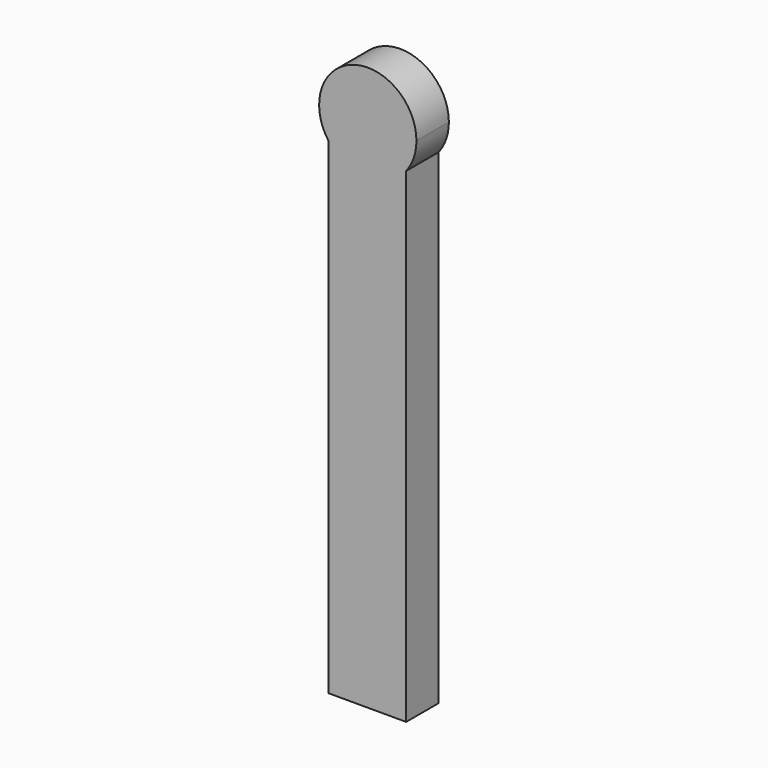
from build123d import *

# Parameters (mm, degrees)
F1_DEPTH = 25
F2_R     = 5
F3_DEPTH = 5


with BuildPart() as f1:
    # F0 (on Front) → F1 (new body)
    with BuildSketch(Plane.XZ):
        with BuildLine():
            ThreePointArc((25.259304, -18.427804), (29.960421, -9.741836), (31.586196, 0))
            ThreePointArc((31.586196, 0), (-7.638587, 28.546513), (-22.740696, -17.555692))
            Line((-22.740696, -17.555692), (25.259304, -17.555692))
            Line((25.259304, -17.555692), (25.259304, -18.427804))
        make_face()
        with BuildLine():
            Line((25.259304, -17.555692), (-22.740696, -17.555692))
            ThreePointArc((-22.740696, -17.555692), (1.041216, -29.99505), (25.259304, -18.427804))
            Line((25.259304, -18.427804), (25.259304, -17.555692))
        make_face()
        with BuildLine():
            ThreePointArc((25.259304, -18.427804), (1.041216, -29.99505), (-22.740696, -17.555692))
            Line((-22.740696, -17.555692), (-22.740696, -317.555692))
            Line((-22.740696, -317.555692), (25.259304, -317.555692))
            Line((25.259304, -317.555692), (25.259304, -18.427804))
        make_face()
    extrude(amount=F1_DEPTH)

    # F2 (on face) → F3 (cut)
    with BuildSketch(Plane(origin=(0, 0, 0), x_dir=(-1, 0, 0), z_dir=(0, 1, 0))):
        Circle(F2_R)
    extrude(amount=-F3_DEPTH, mode=Mode.SUBTRACT)


solid = f1.part
